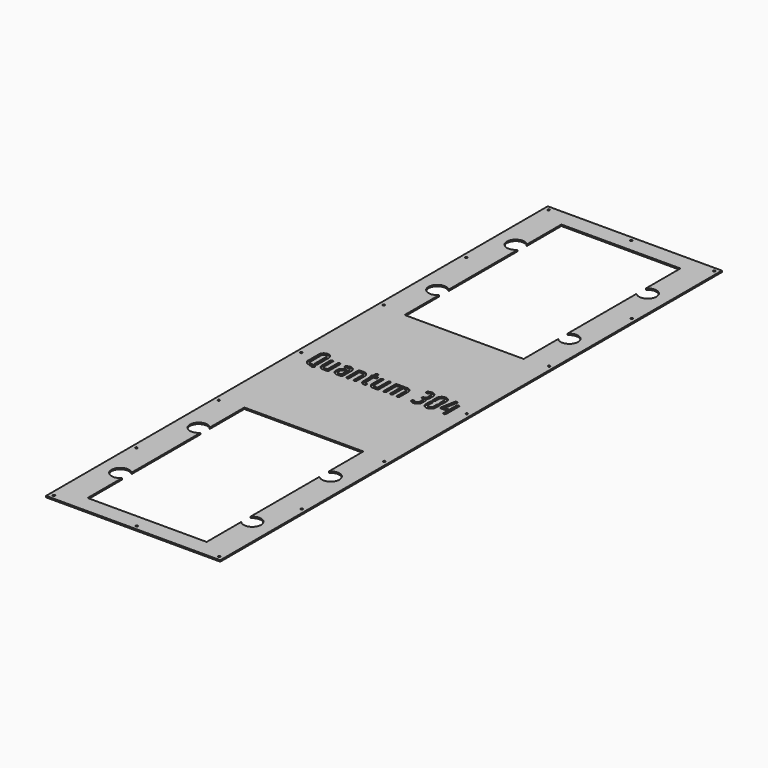
from build123d import *

# Parameters (mm, degrees)
F0_W     = 254
F0_H     = 914.4
F0_R     = 1.575
F1_DEPTH = 2.032


with BuildPart() as f1:
    # F0 (on Top) → F1 (new body)
    with BuildSketch(Plane.XY):
        with Locations((-358.773908, 13.611401)):
            Rectangle(F0_W, F0_H)
        with Locations((-479.423908, -437.238599)):
            Circle(F0_R, mode=Mode.SUBTRACT)
        with Locations((-479.423908, -286.955266)):
            Circle(F0_R, mode=Mode.SUBTRACT)
        with Locations((-479.423908, -136.671932)):
            Circle(F0_R, mode=Mode.SUBTRACT)
        Polygon((-461.237136, 22.853648), (-461.21232, 23.572976), (-461.113107, 24.292304), (-460.939473, 24.962026), (-460.716232, 25.631773), (-460.393779, 26.251889), (-460.046511, 26.847189), (-459.600029, 27.417698), (-459.103942, 27.963417), (-458.558223, 28.459505), (-457.987714, 28.905986), (-457.392414, 29.253255), (-456.772298, 29.575708), (-456.102576, 29.798948), (-455.432829, 29.972583), (-454.713501, 30.071795), (-453.969357, 30.096611), (-453.250029, 30.071795), (-452.530701, 29.972583), (-451.860954, 29.798948), (-451.191232, 29.575708), (-450.571117, 29.253255), (-449.975817, 28.905986), (-449.405308, 28.459505), (-448.859589, 27.963417), (-448.363501, 27.417698), (-447.91702, 26.847189), (-447.569751, 26.251889), (-447.247298, 25.631773), (-447.024058, 24.962026), (-446.850423, 24.292304), (-446.751185, 23.572976), (-446.726395, 22.853648), (-446.726395, 3.505986), (-446.726395, 3.282745), (-446.726395, 3.059505), (-446.751185, 2.836264), (-446.776001, 2.613023), (-446.800817, 2.414573), (-446.825607, 2.191333), (-446.850423, 1.992908), (-446.900029, 1.769667), (-446.92482, 1.645639), (-446.974451, 1.496795), (-447.024058, 1.372792), (-447.073664, 1.248764), (-447.14806, 1.149526), (-447.222482, 1.025523), (-447.321695, 0.926286), (-447.420933, 0.802283), (-447.569751, 0.678255), (-447.743386, 0.554226), (-447.892204, 0.455014), (-448.065839, 0.380592), (-448.239473, 0.30617), (-448.413107, 0.256564), (-448.611558, 0.231773), (-448.809982, 0.231773), (-449.008433, 0.231773), (-449.182067, 0.256564), (-449.380492, 0.30617), (-449.554126, 0.380592), (-449.702945, 0.455014), (-449.876579, 0.554226), (-450.025423, 0.653439), (-450.174242, 0.802283), (-450.29827, 0.951101), (-450.422298, 1.09992), (-450.521511, 1.248764), (-450.595933, 1.422398), (-450.670329, 1.596033), (-450.695145, 1.769667), (-450.719935, 1.968092), (-450.744751, 2.166542), (-450.744751, 2.216148), (-450.744751, 2.265755), (-450.744751, 2.315361), (-450.744751, 2.364967), (-450.719935, 2.414573), (-450.719935, 2.488995), (-450.719935, 2.538601), (-450.719935, 2.588208), (-450.695145, 2.712236), (-450.670329, 2.811448), (-450.645539, 2.935476), (-450.620723, 3.034689), (-450.620723, 3.158717), (-450.595933, 3.257929), (-450.595933, 3.381958), (-450.595933, 3.505986), (-450.595933, 22.853648), (-450.620723, 23.176101), (-450.645539, 23.52337), (-450.744751, 23.845823), (-450.843964, 24.143486), (-450.992808, 24.441148), (-451.141626, 24.713995), (-451.364867, 24.986842), (-451.588107, 25.234898), (-451.836164, 25.458139), (-452.109011, 25.68138), (-452.381857, 25.830198), (-452.67952, 25.979042), (-452.977183, 26.078255), (-453.299636, 26.177467), (-453.646904, 26.202283), (-453.969357, 26.227073), (-454.316626, 26.202283), (-454.663895, 26.177467), (-454.986348, 26.078255), (-455.284011, 25.979042), (-455.581673, 25.830198), (-455.85452, 25.68138), (-456.127367, 25.458139), (-456.375423, 25.234898), (-456.598664, 24.986842), (-456.821904, 24.713995), (-456.970723, 24.441148), (-457.119567, 24.143486), (-457.218779, 23.845823), (-457.317992, 23.52337), (-457.342808, 23.176101), (-457.367598, 22.853648), (-457.367598, 3.505986), (-457.342808, 3.158717), (-457.317992, 2.836264), (-457.24357, 2.538601), (-457.144357, 2.240939), (-456.995539, 1.968092), (-456.846695, 1.720036), (-456.64827, 1.472005), (-456.425029, 1.248764), (-456.201789, 1.050314), (-455.953732, 0.851889), (-455.705701, 0.678255), (-455.432829, 0.529411), (-455.184798, 0.405408), (-454.887136, 0.28138), (-454.614289, 0.182167), (-454.316626, 0.082929), (-446.900029, -2.496745), (-446.701579, -2.571167), (-446.527945, -2.67038), (-446.379126, -2.769592), (-446.230308, -2.89362), (-446.081464, -3.017649), (-445.957435, -3.166467), (-445.858223, -3.315311), (-445.759011, -3.488946), (-445.709404, -3.612974), (-445.684589, -3.712186), (-445.634982, -3.811399), (-445.610192, -3.935427), (-445.585376, -4.034639), (-445.585376, -4.133852), (-445.56056, -4.233089), (-445.56056, -4.332302), (-445.56056, -4.406724), (-445.56056, -4.48112), (-445.585376, -4.555542), (-445.585376, -4.629964), (-445.610192, -4.704361), (-445.610192, -4.778783), (-445.634982, -4.877995), (-445.659798, -4.952417), (-445.734195, -5.126052), (-445.833433, -5.299686), (-445.932645, -5.473321), (-446.031857, -5.622139), (-446.180701, -5.746167), (-446.32952, -5.870196), (-446.478339, -5.994224), (-446.651973, -6.093436), (-446.751185, -6.118227), (-446.875214, -6.167858), (-446.974451, -6.192649), (-447.073664, -6.217464), (-447.197692, -6.242255), (-447.296904, -6.267071), (-447.396117, -6.267071), (-447.495329, -6.267071), (-447.569751, -6.267071), (-447.668964, -6.267071), (-447.743386, -6.267071), (-447.817808, -6.242255), (-447.892204, -6.242255), (-447.966626, -6.217464), (-448.041048, -6.192649), (-448.140261, -6.167858), (-455.904126, -3.513736), (-456.400214, -3.340102), (-456.846695, -3.141677), (-457.293201, -2.918436), (-457.690076, -2.695196), (-458.086951, -2.447139), (-458.459011, -2.199083), (-458.781464, -1.926236), (-459.103942, -1.628599), (-459.600029, -1.08288), (-460.046511, -0.51237), (-460.393779, 0.082929), (-460.716232, 0.703045), (-460.939473, 1.372792), (-461.113107, 2.042514), (-461.21232, 2.761842), (-461.237136, 3.505986), align=None, mode=Mode.SUBTRACT)
        Polygon((-441.269357, 2.538601), (-441.36857, 3.233139), (-441.418201, 3.977283), (-441.418201, 18.984111), (-441.393386, 19.157745), (-441.36857, 19.35617), (-441.318964, 19.529804), (-441.269357, 19.703439), (-441.194935, 19.877073), (-441.095723, 20.050708), (-440.971695, 20.199526), (-440.847692, 20.34837), (-440.698848, 20.472398), (-440.550029, 20.596401), (-440.376395, 20.695639), (-440.202761, 20.770036), (-440.029126, 20.819667), (-439.855492, 20.869273), (-439.657067, 20.894064), (-439.483433, 20.91888), (-439.284982, 20.894064), (-439.086558, 20.869273), (-438.912923, 20.819667), (-438.739289, 20.770036), (-438.565654, 20.695639), (-438.39202, 20.596401), (-438.243201, 20.472398), (-438.094357, 20.34837), (-437.970329, 20.199526), (-437.846326, 20.050708), (-437.747089, 19.877073), (-437.672692, 19.703439), (-437.62306, 19.529804), (-437.573454, 19.35617), (-437.548664, 19.157745), (-437.548664, 18.984111), (-437.548664, 3.977283), (-437.523848, 3.630014), (-437.474242, 3.307536), (-437.39982, 2.985083), (-437.300607, 2.68742), (-437.151789, 2.389783), (-436.978154, 2.116911), (-436.779704, 1.844064), (-436.556464, 1.571217), (-436.283617, 1.347976), (-436.01077, 1.149526), (-435.737923, 0.975917), (-435.440261, 0.827073), (-435.142598, 0.727861), (-434.820145, 0.653439), (-434.497692, 0.603833), (-434.150423, 0.579042), (-430.752183, 0.579042), (-430.752183, 18.984111), (-430.752183, 19.157745), (-430.727367, 19.35617), (-430.677761, 19.529804), (-430.628154, 19.703439), (-430.553732, 19.877073), (-430.45452, 20.050708), (-430.330492, 20.199526), (-430.206464, 20.34837), (-430.057645, 20.472398), (-429.908826, 20.596401), (-429.735192, 20.695639), (-429.561558, 20.770036), (-429.387923, 20.819667), (-429.214289, 20.869273), (-429.015839, 20.894064), (-428.817414, 20.91888), (-428.643779, 20.894064), (-428.445329, 20.869273), (-428.271695, 20.819667), (-428.09806, 20.770036), (-427.924451, 20.695639), (-427.750817, 20.596401), (-427.601973, 20.472398), (-427.453154, 20.34837), (-427.329126, 20.199526), (-427.205098, 20.050708), (-427.105886, 19.877073), (-427.031464, 19.703439), (-426.981857, 19.529804), (-426.932251, 19.35617), (-426.907435, 19.157745), (-426.882645, 18.984111), (-426.882645, -1.355727), (-426.907435, -1.529361), (-426.932251, -1.727811), (-426.981857, -1.901446), (-427.031464, -2.07508), (-427.105886, -2.248714), (-427.205098, -2.422349), (-427.329126, -2.571167), (-427.453154, -2.719986), (-427.601973, -2.844014), (-427.750817, -2.968042), (-427.924451, -3.067255), (-428.09806, -3.141677), (-428.271695, -3.191283), (-428.445329, -3.240889), (-428.643779, -3.265705), (-428.817414, -3.290495), (-434.150423, -3.290495), (-434.894567, -3.240889), (-435.589079, -3.141677), (-436.283617, -2.968042), (-436.928548, -2.744802), (-437.548664, -2.447139), (-438.168779, -2.07508), (-438.739289, -1.653389), (-439.284982, -1.157302), (-439.78107, -0.611583), (-440.202761, -0.041099), (-440.57482, 0.579042), (-440.872482, 1.199158), (-441.095723, 1.844064), align=None, mode=Mode.SUBTRACT)
        Polygon((-421.078339, 5.936842), (-421.053548, 6.680986), (-420.95431, 7.375523), (-420.780701, 8.070036), (-420.557435, 8.714967), (-420.234982, 9.335083), (-419.887714, 9.955198), (-419.441232, 10.525708), (-418.945145, 11.071401), (-418.473848, 11.517908), (-417.952945, 11.889967), (-417.432067, 12.237236), (-416.886348, 12.534898), (-416.315839, 12.758139), (-415.720539, 12.956564), (-415.100423, 13.080592), (-414.480308, 13.179804), (-414.232251, 13.155014), (-414.009011, 13.130198), (-413.81056, 13.080592), (-413.612136, 13.030986), (-413.413685, 12.931773), (-413.240076, 12.832536), (-413.091232, 12.733323), (-412.942414, 12.584505), (-412.818386, 12.435661), (-412.694357, 12.286842), (-412.595145, 12.113208), (-412.520723, 11.964389), (-412.446326, 11.790755), (-412.396695, 11.61712), (-412.371904, 11.41867), (-412.371904, 11.245036), (-412.371904, 11.046611), (-412.396695, 10.848161), (-412.446326, 10.674526), (-412.520723, 10.500917), (-412.595145, 10.327283), (-412.694357, 10.178439), (-412.79357, 10.02962), (-412.917598, 9.880776), (-413.066442, 9.756773), (-413.190445, 9.657536), (-413.339289, 9.558323), (-413.488107, 9.483901), (-413.636951, 9.409505), (-413.78577, 9.359898), (-413.934589, 9.335083), (-414.108223, 9.310292), (-414.405886, 9.260661), (-414.703548, 9.211054), (-414.976395, 9.136658), (-415.249242, 9.01263), (-415.497298, 8.888601), (-415.745329, 8.714967), (-415.993386, 8.541333), (-416.216626, 8.318092), (-416.439867, 8.070036), (-416.663107, 7.797189), (-416.811951, 7.524342), (-416.96077, 7.226679), (-417.059982, 6.929042), (-417.159195, 6.606564), (-417.184011, 6.284111), (-417.208826, 5.936842), (-417.208826, 3.977283), (-417.184011, 3.630014), (-417.159195, 3.307536), (-417.059982, 2.985083), (-416.96077, 2.68742), (-416.811951, 2.389783), (-416.663107, 2.116911), (-416.439867, 1.844064), (-416.216626, 1.571217), (-415.96857, 1.347976), (-415.695723, 1.149526), (-415.422876, 0.975917), (-415.125214, 0.827073), (-414.827576, 0.727861), (-414.505098, 0.653439), (-414.157829, 0.603833), (-413.81056, 0.579042), (-410.437136, 0.579042), (-410.437136, 14.122398), (-410.461951, 14.444851), (-410.511558, 14.79212), (-410.585954, 15.114573), (-410.709982, 15.412236), (-410.834011, 15.709898), (-411.007645, 15.982745), (-411.20607, 16.255592), (-411.42931, 16.503648), (-411.702183, 16.726889), (-411.950214, 16.95013), (-412.247876, 17.098948), (-412.520723, 17.247792), (-412.843201, 17.347005), (-413.165654, 17.446217), (-413.488107, 17.471033), (-413.835376, 17.495823), (-414.182645, 17.471033), (-414.529914, 17.421401), (-414.852367, 17.347005), (-415.150029, 17.247792), (-415.447692, 17.098948), (-415.745329, 16.925314), (-416.018201, 16.726889), (-416.291048, 16.478833), (-416.415076, 16.354804), (-416.563895, 16.230776), (-416.737529, 16.131564), (-416.886348, 16.057167), (-417.059982, 15.982745), (-417.258433, 15.933139), (-417.432067, 15.908323), (-417.655308, 15.908323), (-417.828942, 15.908323), (-418.027367, 15.933139), (-418.201001, 15.982745), (-418.374636, 16.032351), (-418.54827, 16.131564), (-418.721904, 16.230776), (-418.870723, 16.330014), (-419.019567, 16.478833), (-419.14357, 16.602861), (-419.267598, 16.776495), (-419.36681, 16.925314), (-419.441232, 17.098948), (-419.490839, 17.272583), (-419.540445, 17.446217), (-419.565261, 17.644667), (-419.590076, 17.843092), (-419.565261, 18.016726), (-419.540445, 18.215151), (-419.490839, 18.388786), (-419.441232, 18.56242), (-419.36681, 18.736054), (-419.267598, 18.884898), (-419.14357, 19.033717), (-419.019567, 19.182536), (-418.473848, 19.703439), (-417.878548, 20.14992), (-417.283223, 20.522005), (-416.638317, 20.844458), (-415.96857, 21.092514), (-415.298848, 21.241333), (-414.57952, 21.365361), (-413.835376, 21.390151), (-413.116048, 21.365361), (-412.396695, 21.266148), (-411.726973, 21.092514), (-411.057251, 20.869273), (-410.437136, 20.546795), (-409.84181, 20.199526), (-409.271326, 19.753045), (-408.725607, 19.256958), (-408.22952, 18.711264), (-407.783039, 18.140755), (-407.410954, 17.545429), (-407.113317, 16.900523), (-406.890076, 16.255592), (-406.716442, 15.561054), (-406.617204, 14.841726), (-406.567598, 14.122398), (-406.567598, -1.355727), (-406.567598, -1.529361), (-406.592414, -1.727811), (-406.64202, -1.901446), (-406.716442, -2.07508), (-406.790839, -2.248714), (-406.890076, -2.422349), (-407.014079, -2.571167), (-407.138107, -2.719986), (-407.286951, -2.844014), (-407.43577, -2.968042), (-407.584589, -3.067255), (-407.758223, -3.141677), (-407.931857, -3.191283), (-408.105492, -3.240889), (-408.303942, -3.265705), (-408.502367, -3.290495), (-413.81056, -3.290495), (-414.554704, -3.240889), (-415.274058, -3.141677), (-415.943779, -2.968042), (-416.613501, -2.744802), (-417.233617, -2.447139), (-417.828942, -2.07508), (-418.399451, -1.653389), (-418.945145, -1.157302), (-419.441232, -0.611583), (-419.887714, -0.041099), (-420.234982, 0.579042), (-420.557435, 1.199158), (-420.780701, 1.844064), (-420.95431, 2.538601), (-421.053548, 3.233139), (-421.078339, 3.977283), align=None, mode=Mode.SUBTRACT)
        Polygon((-401.160192, -1.901446), (-401.209798, -1.727811), (-401.234589, -1.529361), (-401.234589, -1.355727), (-401.234589, 18.984111), (-401.234589, 19.157745), (-401.209798, 19.35617), (-401.160192, 19.529804), (-401.08577, 19.703439), (-401.011348, 19.877073), (-400.912136, 20.050708), (-400.788107, 20.199526), (-400.664079, 20.34837), (-400.515261, 20.472398), (-400.366442, 20.596401), (-400.217598, 20.695639), (-400.043964, 20.770036), (-399.870329, 20.819667), (-399.696695, 20.869273), (-399.49827, 20.894064), (-399.29982, 20.91888), (-393.991626, 20.91888), (-393.247482, 20.869273), (-392.528154, 20.770036), (-391.858433, 20.596401), (-391.188685, 20.373161), (-390.56857, 20.075523), (-389.97327, 19.703439), (-389.402761, 19.281773), (-388.857067, 18.785661), (-388.360954, 18.239967), (-387.914473, 17.669458), (-387.567204, 17.049342), (-387.244751, 16.429226), (-387.021511, 15.784295), (-386.847876, 15.089783), (-386.748664, 14.395245), (-386.723848, 13.651101), (-386.723848, -1.355727), (-386.723848, -1.529361), (-386.748664, -1.727811), (-386.79827, -1.901446), (-386.872692, -2.07508), (-386.947089, -2.248714), (-387.046326, -2.422349), (-387.170329, -2.571167), (-387.294357, -2.719986), (-387.443201, -2.844014), (-387.59202, -2.968042), (-387.740839, -3.067255), (-387.914473, -3.141677), (-388.088107, -3.191283), (-388.261742, -3.240889), (-388.460192, -3.265705), (-388.658617, -3.290495), (-388.857067, -3.265705), (-389.055492, -3.240889), (-389.229126, -3.191283), (-389.402761, -3.141677), (-389.576395, -3.067255), (-389.725214, -2.968042), (-389.874058, -2.844014), (-390.022876, -2.719986), (-390.146904, -2.571167), (-390.270933, -2.422349), (-390.370145, -2.248714), (-390.444567, -2.07508), (-390.518964, -1.901446), (-390.56857, -1.727811), (-390.593386, -1.529361), (-390.593386, -1.355727), (-390.593386, 13.651101), (-390.618201, 13.99837), (-390.642992, 14.320823), (-390.742204, 14.643276), (-390.841442, 14.940939), (-390.990261, 15.238601), (-391.139079, 15.511448), (-391.36232, 15.784295), (-391.58556, 16.057167), (-391.833617, 16.280408), (-392.106464, 16.478833), (-392.37931, 16.652467), (-392.676973, 16.801286), (-392.974636, 16.900523), (-393.297089, 16.97492), (-393.644357, 17.024526), (-393.991626, 17.049342), (-397.365076, 17.049342), (-397.365076, -1.355727), (-397.365076, -1.529361), (-397.389867, -1.727811), (-397.439473, -1.901446), (-397.513895, -2.07508), (-397.588317, -2.248714), (-397.687529, -2.422349), (-397.811558, -2.571167), (-397.93556, -2.719986), (-398.084404, -2.844014), (-398.233223, -2.968042), (-398.382067, -3.067255), (-398.555701, -3.141677), (-398.72931, -3.191283), (-398.902945, -3.240889), (-399.101395, -3.265705), (-399.29982, -3.290495), (-399.49827, -3.265705), (-399.696695, -3.240889), (-399.870329, -3.191283), (-400.043964, -3.141677), (-400.217598, -3.067255), (-400.366442, -2.968042), (-400.515261, -2.844014), (-400.664079, -2.719986), (-400.788107, -2.571167), (-400.912136, -2.422349), (-401.011348, -2.248714), (-401.08577, -2.07508), align=None, mode=Mode.SUBTRACT)
        Polygon((-381.812529, 18.413601), (-381.862136, 18.587236), (-381.886951, 18.785661), (-381.886951, 18.984111), (-381.886951, 19.157745), (-381.862136, 19.35617), (-381.812529, 19.529804), (-381.762923, 19.703439), (-381.663685, 19.877073), (-381.564473, 20.050708), (-381.465261, 20.199526), (-381.316442, 20.34837), (-381.217204, 20.447583), (-381.117992, 20.522005), (-381.018779, 20.596401), (-380.894751, 20.670823), (-380.795539, 20.720429), (-380.671511, 20.770036), (-380.547482, 20.819667), (-380.423454, 20.869273), (-380.423454, 24.763601), (-380.423454, 24.937236), (-380.398664, 25.135661), (-380.349058, 25.309295), (-380.274636, 25.482929), (-380.200214, 25.656564), (-380.101001, 25.830198), (-379.976973, 25.979042), (-379.852945, 26.127861), (-379.704126, 26.251889), (-379.530492, 26.375917), (-379.381673, 26.47513), (-379.208039, 26.549526), (-379.034404, 26.599158), (-378.86077, 26.648764), (-378.687136, 26.673554), (-378.488685, 26.69837), (-378.290261, 26.673554), (-378.09181, 26.648764), (-377.918201, 26.599158), (-377.744567, 26.549526), (-377.570933, 26.47513), (-377.422089, 26.375917), (-377.27327, 26.251889), (-377.124451, 26.127861), (-377.000423, 25.979042), (-376.876395, 25.830198), (-376.777183, 25.656564), (-376.702761, 25.482929), (-376.628339, 25.309295), (-376.578732, 25.135661), (-376.553942, 24.937236), (-376.553942, 24.763601), (-376.553942, 20.91888), (-374.12306, 20.91888), (-373.949451, 20.894064), (-373.751001, 20.869273), (-373.577367, 20.819667), (-373.403732, 20.770036), (-373.230098, 20.695639), (-373.056464, 20.596401), (-372.907645, 20.472398), (-372.758826, 20.34837), (-372.634798, 20.199526), (-372.51077, 20.050708), (-372.411558, 19.877073), (-372.337136, 19.703439), (-372.287529, 19.529804), (-372.237923, 19.35617), (-372.213107, 19.157745), (-372.188317, 18.984111), (-372.213107, 18.785661), (-372.237923, 18.587236), (-372.287529, 18.413601), (-372.337136, 18.239967), (-372.411558, 18.066333), (-372.51077, 17.892698), (-372.634798, 17.74388), (-372.758826, 17.595036), (-372.907645, 17.471033), (-373.056464, 17.347005), (-373.230098, 17.247792), (-373.403732, 17.17337), (-373.577367, 17.123764), (-373.751001, 17.074158), (-373.949451, 17.049342), (-374.12306, 17.049342), (-376.553942, 17.049342), (-376.553942, 3.009898), (-376.553942, 2.761842), (-376.50431, 2.513786), (-376.454704, 2.290545), (-376.380308, 2.067304), (-376.28107, 1.86888), (-376.157067, 1.670429), (-376.008223, 1.472005), (-375.859404, 1.29837), (-375.660954, 1.124736), (-375.48732, 0.975917), (-375.288895, 0.876679), (-375.065654, 0.777467), (-374.842414, 0.678255), (-374.619173, 0.628648), (-374.395933, 0.603833), (-374.12306, 0.579042), (-373.924636, 0.579042), (-373.751001, 0.554226), (-373.552576, 0.50462), (-373.378942, 0.455014), (-373.205308, 0.355776), (-373.056464, 0.256564), (-372.882829, 0.157351), (-372.734011, 0.008533), (-372.609982, -0.140311), (-372.485954, -0.28913), (-372.386742, -0.462764), (-372.31232, -0.611583), (-372.262714, -0.785217), (-372.213107, -0.958852), (-372.188317, -1.157302), (-372.188317, -1.355727), (-372.188317, -1.529361), (-372.213107, -1.727811), (-372.262714, -1.901446), (-372.31232, -2.07508), (-372.386742, -2.248714), (-372.485954, -2.422349), (-372.609982, -2.571167), (-372.734011, -2.719986), (-372.882829, -2.844014), (-373.056464, -2.968042), (-373.205308, -3.067255), (-373.378942, -3.141677), (-373.552576, -3.191283), (-373.751001, -3.240889), (-373.924636, -3.265705), (-374.12306, -3.290495), (-374.767992, -3.240889), (-375.388107, -3.166467), (-375.983433, -3.017649), (-376.529126, -2.819224), (-377.07482, -2.546352), (-377.595723, -2.248714), (-378.09181, -1.851839), (-378.563107, -1.430149), (-379.009589, -0.958852), (-379.381673, -0.462764), (-379.704126, 0.058139), (-379.952183, 0.603833), (-380.175423, 1.174342), (-380.299451, 1.769667), (-380.398664, 2.364967), (-380.423454, 3.009898), (-380.423454, 17.074158), (-380.547482, 17.123764), (-380.671511, 17.17337), (-380.795539, 17.222976), (-380.894751, 17.272583), (-381.018779, 17.347005), (-381.117992, 17.421401), (-381.217204, 17.520639), (-381.316442, 17.619851), (-381.465261, 17.76867), (-381.564473, 17.917514), (-381.663685, 18.091148), (-381.762923, 18.239967), align=None, mode=Mode.SUBTRACT)
        Polygon((-368.194751, 2.538601), (-368.293964, 3.233139), (-368.34357, 3.977283), (-368.34357, 18.984111), (-368.318779, 19.157745), (-368.293964, 19.35617), (-368.244357, 19.529804), (-368.194751, 19.703439), (-368.120329, 19.877073), (-368.021117, 20.050708), (-367.897089, 20.199526), (-367.77306, 20.34837), (-367.624242, 20.472398), (-367.475423, 20.596401), (-367.301789, 20.695639), (-367.128154, 20.770036), (-366.95452, 20.819667), (-366.780886, 20.869273), (-366.582435, 20.894064), (-366.408826, 20.91888), (-366.210376, 20.894064), (-366.011951, 20.869273), (-365.838317, 20.819667), (-365.664683, 20.770036), (-365.491048, 20.695639), (-365.317414, 20.596401), (-365.16857, 20.472398), (-365.019751, 20.34837), (-364.895723, 20.199526), (-364.771695, 20.050708), (-364.672482, 19.877073), (-364.59806, 19.703439), (-364.548454, 19.529804), (-364.498848, 19.35617), (-364.474058, 19.157745), (-364.474058, 18.984111), (-364.474058, 3.977283), (-364.449242, 3.630014), (-364.399636, 3.307536), (-364.325214, 2.985083), (-364.226001, 2.68742), (-364.077183, 2.389783), (-363.903548, 2.116911), (-363.705098, 1.844064), (-363.481857, 1.571217), (-363.209011, 1.347976), (-362.936164, 1.149526), (-362.663317, 0.975917), (-362.365654, 0.827073), (-362.067992, 0.727861), (-361.745539, 0.653439), (-361.42306, 0.603833), (-361.075817, 0.579042), (-357.677576, 0.579042), (-357.677576, 18.984111), (-357.677576, 19.157745), (-357.652761, 19.35617), (-357.603154, 19.529804), (-357.553548, 19.703439), (-357.479126, 19.877073), (-357.379914, 20.050708), (-357.255886, 20.199526), (-357.131857, 20.34837), (-356.983039, 20.472398), (-356.834195, 20.596401), (-356.66056, 20.695639), (-356.486951, 20.770036), (-356.313317, 20.819667), (-356.139683, 20.869273), (-355.941232, 20.894064), (-355.742808, 20.91888), (-355.569173, 20.894064), (-355.370723, 20.869273), (-355.197089, 20.819667), (-355.023454, 20.770036), (-354.84982, 20.695639), (-354.676185, 20.596401), (-354.527367, 20.472398), (-354.378548, 20.34837), (-354.25452, 20.199526), (-354.130492, 20.050708), (-354.031279, 19.877073), (-353.956857, 19.703439), (-353.907251, 19.529804), (-353.857645, 19.35617), (-353.832829, 19.157745), (-353.808039, 18.984111), (-353.808039, -1.355727), (-353.832829, -1.529361), (-353.857645, -1.727811), (-353.907251, -1.901446), (-353.956857, -2.07508), (-354.031279, -2.248714), (-354.130492, -2.422349), (-354.25452, -2.571167), (-354.378548, -2.719986), (-354.527367, -2.844014), (-354.676185, -2.968042), (-354.84982, -3.067255), (-355.023454, -3.141677), (-355.197089, -3.191283), (-355.370723, -3.240889), (-355.569173, -3.265705), (-355.742808, -3.290495), (-361.075817, -3.290495), (-361.819935, -3.240889), (-362.514473, -3.141677), (-363.209011, -2.968042), (-363.853942, -2.744802), (-364.474058, -2.447139), (-365.094173, -2.07508), (-365.664683, -1.653389), (-366.210376, -1.157302), (-366.706464, -0.611583), (-367.128154, -0.041099), (-367.500214, 0.579042), (-367.797876, 1.199158), (-368.021117, 1.844064), align=None, mode=Mode.SUBTRACT)
        with Locations((-358.773908, -437.238599)):
            Circle(F0_R, mode=Mode.SUBTRACT)
        with BuildLine():
            Line((-445.553008, -195.475839), (-445.553008, -132.438599))
            Line((-445.553008, -132.438599), (-271.994808, -132.438599))
            Line((-271.994808, -132.438599), (-271.994808, -195.475839))
            ThreePointArc((-271.994808, -195.475839), (-249.769808, -203.876099), (-271.994808, -212.276359))
            Line((-271.994808, -212.276359), (-271.994808, -338.350839))
            ThreePointArc((-271.994808, -338.350839), (-249.769808, -346.751099), (-271.994808, -355.151359))
            Line((-271.994808, -355.151359), (-271.994808, -418.188599))
            Line((-271.994808, -418.188599), (-445.553008, -418.188599))
            Line((-445.553008, -418.188599), (-445.553008, -355.151359))
            ThreePointArc((-445.553008, -355.151359), (-467.778008, -346.751099), (-445.553008, -338.350839))
            Line((-445.553008, -338.350839), (-445.553008, -212.276359))
            ThreePointArc((-445.553008, -212.276359), (-467.778008, -203.876099), (-445.553008, -195.475839))
        make_face(mode=Mode.SUBTRACT)
        with Locations((-238.123908, -437.238599)):
            Circle(F0_R, mode=Mode.SUBTRACT)
        with Locations((-238.123908, -286.955266)):
            Circle(F0_R, mode=Mode.SUBTRACT)
        Polygon((-346.961951, -1.901446), (-347.011558, -1.727811), (-347.036348, -1.529361), (-347.036348, -1.355727), (-347.036348, 18.984111), (-347.036348, 19.157745), (-347.011558, 19.35617), (-346.961951, 19.529804), (-346.887529, 19.703439), (-346.813107, 19.877073), (-346.713895, 20.050708), (-346.589867, 20.199526), (-346.465839, 20.34837), (-346.31702, 20.472398), (-346.168201, 20.596401), (-346.019357, 20.695639), (-345.845723, 20.770036), (-345.672089, 20.819667), (-345.498454, 20.869273), (-345.300029, 20.894064), (-345.101579, 20.91888), (-331.062136, 20.91888), (-330.342808, 20.869273), (-329.623454, 20.770036), (-328.953732, 20.596401), (-328.284011, 20.373161), (-327.663895, 20.075523), (-327.06857, 19.703439), (-326.49806, 19.281773), (-325.952367, 18.785661), (-325.456279, 18.239967), (-325.009798, 17.669458), (-324.662529, 17.049342), (-324.340076, 16.429226), (-324.11681, 15.784295), (-323.943201, 15.089783), (-323.843964, 14.395245), (-323.819173, 13.651101), (-323.819173, -1.355727), (-323.819173, -1.529361), (-323.843964, -1.727811), (-323.89357, -1.901446), (-323.967992, -2.07508), (-324.042414, -2.248714), (-324.141626, -2.422349), (-324.265654, -2.571167), (-324.389683, -2.719986), (-324.538501, -2.844014), (-324.68732, -2.968042), (-324.836164, -3.067255), (-325.009798, -3.141677), (-325.183433, -3.191283), (-325.357067, -3.240889), (-325.555492, -3.265705), (-325.753942, -3.290495), (-325.952367, -3.265705), (-326.150817, -3.240889), (-326.324451, -3.191283), (-326.49806, -3.141677), (-326.671695, -3.067255), (-326.820539, -2.968042), (-326.969357, -2.844014), (-327.118201, -2.719986), (-327.242204, -2.571167), (-327.366232, -2.422349), (-327.465445, -2.248714), (-327.539867, -2.07508), (-327.614289, -1.901446), (-327.663895, -1.727811), (-327.688685, -1.529361), (-327.688685, -1.355727), (-327.688685, 13.651101), (-327.713501, 13.99837), (-327.738317, 14.320823), (-327.837529, 14.643276), (-327.936742, 14.940939), (-328.08556, 15.238601), (-328.234404, 15.511448), (-328.457645, 15.784295), (-328.680886, 16.057167), (-328.928942, 16.280408), (-329.201789, 16.478833), (-329.474636, 16.652467), (-329.772298, 16.801286), (-330.069935, 16.900523), (-330.392414, 16.97492), (-330.739683, 17.024526), (-331.062136, 17.049342), (-333.492992, 17.049342), (-333.492992, -1.355727), (-333.492992, -1.529361), (-333.517808, -1.727811), (-333.567414, -1.901446), (-333.64181, -2.07508), (-333.716232, -2.248714), (-333.815445, -2.422349), (-333.939473, -2.571167), (-334.063501, -2.719986), (-334.21232, -2.844014), (-334.361164, -2.968042), (-334.509982, -3.067255), (-334.683617, -3.141677), (-334.857251, -3.191283), (-335.030886, -3.240889), (-335.22931, -3.265705), (-335.427761, -3.290495), (-335.626185, -3.265705), (-335.824636, -3.240889), (-335.99827, -3.191283), (-336.171904, -3.141677), (-336.345539, -3.067255), (-336.494357, -2.968042), (-336.643201, -2.844014), (-336.79202, -2.719986), (-336.916048, -2.571167), (-337.040076, -2.422349), (-337.139289, -2.248714), (-337.213685, -2.07508), (-337.288107, -1.901446), (-337.337714, -1.727811), (-337.362529, -1.529361), (-337.362529, -1.355727), (-337.362529, 17.049342), (-343.16681, 17.049342), (-343.16681, -1.355727), (-343.16681, -1.529361), (-343.191626, -1.727811), (-343.241232, -1.901446), (-343.315654, -2.07508), (-343.390076, -2.248714), (-343.489289, -2.422349), (-343.613317, -2.571167), (-343.73732, -2.719986), (-343.886164, -2.844014), (-344.034982, -2.968042), (-344.183826, -3.067255), (-344.357435, -3.141677), (-344.53107, -3.191283), (-344.704704, -3.240889), (-344.903154, -3.265705), (-345.101579, -3.290495), (-345.300029, -3.265705), (-345.498454, -3.240889), (-345.672089, -3.191283), (-345.845723, -3.141677), (-346.019357, -3.067255), (-346.168201, -2.968042), (-346.31702, -2.844014), (-346.465839, -2.719986), (-346.589867, -2.571167), (-346.713895, -2.422349), (-346.813107, -2.248714), (-346.887529, -2.07508), align=None, mode=Mode.SUBTRACT)
        Polygon((-307.770539, -0.561977), (-307.795329, -0.363552), (-307.820145, -0.189917), (-307.795329, 0.008533), (-307.770539, 0.206958), (-307.720933, 0.380592), (-307.671326, 0.554226), (-307.596904, 0.727861), (-307.497692, 0.876679), (-307.373664, 1.050314), (-307.249636, 1.174342), (-307.100817, 1.323161), (-306.951973, 1.422398), (-306.778339, 1.521611), (-306.604704, 1.620823), (-306.43107, 1.670429), (-306.257435, 1.720036), (-306.059011, 1.744851), (-305.885376, 1.744851), (-305.686951, 1.744851), (-305.488501, 1.720036), (-305.314867, 1.670429), (-305.141232, 1.620823), (-304.967598, 1.546401), (-304.793964, 1.447189), (-304.645145, 1.323161), (-304.496326, 1.199158), (-304.223454, 0.951101), (-303.950607, 0.727861), (-303.652945, 0.554226), (-303.355308, 0.405408), (-303.032829, 0.28138), (-302.710376, 0.206958), (-302.363107, 0.157351), (-302.040654, 0.132536), (-301.66857, 0.157351), (-301.346117, 0.182167), (-301.023664, 0.28138), (-300.726001, 0.380592), (-300.428339, 0.529411), (-300.130701, 0.678255), (-299.882645, 0.901495), (-299.634589, 1.124736), (-299.386558, 1.372792), (-299.188107, 1.645639), (-299.014473, 1.918486), (-298.890445, 2.216148), (-298.791232, 2.513786), (-298.69202, 2.836264), (-298.667204, 3.158717), (-298.642414, 3.505986), (-298.642414, 8.838995), (-298.642414, 9.087026), (-298.69202, 9.335083), (-298.741626, 9.558323), (-298.816048, 9.781564), (-298.915261, 9.980014), (-299.039289, 10.178439), (-299.163317, 10.376889), (-299.336951, 10.550523), (-299.51056, 10.724158), (-299.709011, 10.872976), (-299.907435, 10.972189), (-300.105886, 11.071401), (-300.329126, 11.145823), (-300.552367, 11.220245), (-300.800423, 11.245036), (-301.048454, 11.245036), (-301.07327, 11.245036), (-301.246904, 11.269851), (-301.445329, 11.294667), (-301.618964, 11.344273), (-301.792598, 11.39388), (-301.966232, 11.493092), (-302.139867, 11.592304), (-302.288685, 11.691542), (-302.437529, 11.840361), (-302.561558, 11.989179), (-302.68556, 12.138023), (-302.784798, 12.311658), (-302.859195, 12.460476), (-302.908826, 12.634111), (-302.958433, 12.807745), (-302.983223, 13.00617), (-303.008039, 13.179804), (-302.983223, 13.378255), (-302.958433, 13.576679), (-302.908826, 13.750314), (-302.859195, 13.923948), (-302.784798, 14.097583), (-302.68556, 14.271217), (-302.561558, 14.420036), (-302.437529, 14.56888), (-302.288685, 14.692908), (-302.139867, 14.816911), (-301.966232, 14.916148), (-301.792598, 14.990545), (-301.618964, 15.040151), (-301.445329, 15.089783), (-301.246904, 15.114573), (-301.07327, 15.114573), (-301.048454, 15.114573), (-300.800423, 15.139389), (-300.552367, 15.164179), (-300.329126, 15.213786), (-300.105886, 15.313023), (-299.907435, 15.412236), (-299.709011, 15.511448), (-299.51056, 15.660292), (-299.336951, 15.833901), (-299.163317, 16.007536), (-299.039289, 16.205986), (-298.915261, 16.404411), (-298.816048, 16.602861), (-298.741626, 16.826101), (-298.69202, 17.049342), (-298.642414, 17.297398), (-298.642414, 17.545429), (-298.642414, 22.853648), (-298.667204, 23.200917), (-298.69202, 23.52337), (-298.791232, 23.845823), (-298.890445, 24.143486), (-299.014473, 24.441148), (-299.188107, 24.713995), (-299.386558, 24.986842), (-299.634589, 25.234898), (-299.882645, 25.458139), (-300.130701, 25.68138), (-300.428339, 25.830198), (-300.726001, 25.979042), (-301.023664, 26.078255), (-301.346117, 26.177467), (-301.66857, 26.202283), (-302.040654, 26.227073), (-302.363107, 26.202283), (-302.710376, 26.152651), (-303.032829, 26.078255), (-303.330492, 25.979042), (-303.628154, 25.830198), (-303.925817, 25.631773), (-304.223454, 25.433323), (-304.496326, 25.185292), (-304.645145, 25.061264), (-304.793964, 24.937236), (-304.967598, 24.838023), (-305.141232, 24.763601), (-305.314867, 24.689179), (-305.488501, 24.639573), (-305.686951, 24.614783), (-305.885376, 24.614783), (-306.059011, 24.614783), (-306.257435, 24.639573), (-306.43107, 24.689179), (-306.604704, 24.738786), (-306.778339, 24.838023), (-306.951973, 24.937236), (-307.100817, 25.036448), (-307.249636, 25.185292), (-307.373664, 25.309295), (-307.497692, 25.482929), (-307.596904, 25.631773), (-307.671326, 25.805408), (-307.720933, 25.979042), (-307.770539, 26.152651), (-307.795329, 26.351101), (-307.820145, 26.549526), (-307.795329, 26.723161), (-307.770539, 26.921611), (-307.720933, 27.095245), (-307.671326, 27.26888), (-307.572089, 27.442514), (-307.472876, 27.591333), (-307.373664, 27.740151), (-307.22482, 27.888995), (-306.65431, 28.409898), (-306.083826, 28.88117), (-305.463685, 29.253255), (-304.818779, 29.575708), (-304.173848, 29.798948), (-303.47931, 29.972583), (-302.759982, 30.096611), (-302.040654, 30.121401), (-301.296511, 30.096611), (-300.577183, 29.997398), (-299.907435, 29.823764), (-299.237714, 29.600523), (-298.617598, 29.278045), (-298.022298, 28.930776), (-297.451789, 28.484295), (-296.90607, 27.988208), (-296.409982, 27.442514), (-295.963501, 26.872005), (-295.616232, 26.276679), (-295.293779, 25.656564), (-295.070539, 24.986842), (-294.896904, 24.31712), (-294.797692, 23.597792), (-294.772876, 22.853648), (-294.772876, 17.545429), (-294.797692, 16.900523), (-294.872089, 16.305198), (-295.020933, 15.709898), (-295.219357, 15.164179), (-295.467414, 14.643276), (-295.765076, 14.122398), (-296.137136, 13.651101), (-296.534011, 13.179804), (-296.137136, 12.733323), (-295.765076, 12.262026), (-295.467414, 11.741148), (-295.219357, 11.220245), (-295.020933, 10.674526), (-294.872089, 10.079226), (-294.797692, 9.483901), (-294.772876, 8.838995), (-294.772876, 3.505986), (-294.797692, 2.761842), (-294.896904, 2.042514), (-295.070539, 1.372792), (-295.293779, 0.703045), (-295.616232, 0.082929), (-295.963501, -0.51237), (-296.409982, -1.08288), (-296.90607, -1.628599), (-297.451789, -2.124686), (-298.022298, -2.571167), (-298.617598, -2.918436), (-299.237714, -3.240889), (-299.907435, -3.46413), (-300.577183, -3.637764), (-301.296511, -3.736977), (-302.040654, -3.761792), (-302.759982, -3.736977), (-303.47931, -3.612974), (-304.173848, -3.439339), (-304.818779, -3.216099), (-305.463685, -2.89362), (-306.083826, -2.521561), (-306.65431, -2.050264), (-307.22482, -1.529361), (-307.373664, -1.380542), (-307.472876, -1.231724), (-307.572089, -1.08288), (-307.671326, -0.909245), (-307.720933, -0.735611), align=None, mode=Mode.SUBTRACT)
        with Locations((-238.123908, -136.671932)):
            Circle(F0_R, mode=Mode.SUBTRACT)
        Polygon((-289.340654, 2.042514), (-289.439867, 2.761842), (-289.489473, 3.505986), (-289.489473, 10.252861), (-289.464683, 10.426495), (-289.439867, 10.62492), (-289.390261, 10.798554), (-289.340654, 10.972189), (-289.266232, 11.145823), (-289.16702, 11.319458), (-289.042992, 11.468276), (-288.918964, 11.61712), (-288.770145, 11.741148), (-288.621326, 11.865151), (-288.447692, 11.964389), (-288.274058, 12.038786), (-288.100423, 12.088417), (-287.926789, 12.138023), (-287.728339, 12.162814), (-287.554704, 12.18763), (-287.356279, 12.162814), (-287.157829, 12.138023), (-286.984195, 12.088417), (-286.81056, 12.038786), (-286.636951, 11.964389), (-286.463317, 11.865151), (-286.314473, 11.741148), (-286.165654, 11.61712), (-286.041626, 11.468276), (-285.917598, 11.319458), (-285.818386, 11.145823), (-285.743964, 10.972189), (-285.694357, 10.798554), (-285.644751, 10.62492), (-285.619935, 10.426495), (-285.619935, 10.252861), (-285.619935, 3.505986), (-285.595145, 3.158717), (-285.545539, 2.811448), (-285.471117, 2.488995), (-285.371904, 2.191333), (-285.22306, 1.89367), (-285.049451, 1.620823), (-284.851001, 1.347976), (-284.627761, 1.09992), (-284.354914, 0.876679), (-284.082067, 0.653439), (-283.809195, 0.50462), (-283.511558, 0.355776), (-283.213895, 0.256564), (-282.891442, 0.157351), (-282.568964, 0.132536), (-282.221695, 0.107745), (-281.874451, 0.132536), (-281.551973, 0.157351), (-281.22952, 0.256564), (-280.931857, 0.355776), (-280.634195, 0.50462), (-280.361348, 0.653439), (-280.088501, 0.876679), (-279.815654, 1.09992), (-279.592414, 1.347976), (-279.393964, 1.620823), (-279.220329, 1.89367), (-279.071511, 2.191333), (-278.972298, 2.488995), (-278.897876, 2.811448), (-278.84827, 3.158717), (-278.823454, 3.505986), (-278.823454, 10.252861), (-278.823454, 10.426495), (-278.798664, 10.62492), (-278.749058, 10.798554), (-278.699451, 10.972189), (-278.625029, 11.145823), (-278.525817, 11.319458), (-278.401789, 11.468276), (-278.277761, 11.61712), (-278.128942, 11.741148), (-277.980098, 11.865151), (-277.806464, 11.964389), (-277.632829, 12.038786), (-277.459195, 12.088417), (-277.28556, 12.138023), (-277.087136, 12.162814), (-276.888685, 12.18763), (-276.715076, 12.162814), (-276.516626, 12.138023), (-276.342992, 12.088417), (-276.169357, 12.038786), (-275.995723, 11.964389), (-275.822089, 11.865151), (-275.67327, 11.741148), (-275.524451, 11.61712), (-275.400423, 11.468276), (-275.276395, 11.319458), (-275.177183, 11.145823), (-275.102761, 10.972189), (-275.053154, 10.798554), (-275.003548, 10.62492), (-274.978732, 10.426495), (-274.953942, 10.252861), (-274.953942, 3.505986), (-275.003548, 2.761842), (-275.102761, 2.042514), (-275.276395, 1.372792), (-275.499636, 0.703045), (-275.797298, 0.082929), (-276.169357, -0.51237), (-276.591048, -1.08288), (-277.087136, -1.628599), (-277.632829, -2.124686), (-278.203339, -2.571167), (-278.823454, -2.918436), (-279.44357, -3.240889), (-280.088501, -3.46413), (-280.783039, -3.637764), (-281.477576, -3.736977), (-282.221695, -3.761792), (-282.965839, -3.736977), (-283.660376, -3.637764), (-284.354914, -3.46413), (-284.99982, -3.240889), (-285.619935, -2.918436), (-286.240076, -2.571167), (-286.81056, -2.124686), (-287.356279, -1.628599), (-287.852367, -1.08288), (-288.274058, -0.51237), (-288.646117, 0.082929), (-288.943779, 0.703045), (-289.16702, 1.372792), align=None, mode=Mode.SUBTRACT)
        Polygon((-271.009982, 6.780198), (-271.059589, 6.953833), (-271.084404, 7.152283), (-271.084404, 7.350708), (-271.084404, 7.42513), (-271.084404, 7.499526), (-271.084404, 7.573948), (-271.084404, 7.64837), (-271.059589, 7.722792), (-271.034798, 7.772398), (-271.034798, 7.846795), (-271.009982, 7.896401), (-267.214867, 27.690545), (-267.190076, 27.888995), (-267.140445, 28.08742), (-267.090839, 28.261054), (-267.016442, 28.434689), (-266.94202, 28.608323), (-266.842808, 28.757167), (-266.74357, 28.905986), (-266.619567, 29.054804), (-266.470723, 29.178833), (-266.321904, 29.302861), (-266.17306, 29.402073), (-266.024242, 29.476495), (-265.850607, 29.526101), (-265.676973, 29.575708), (-265.478548, 29.600523), (-265.280098, 29.600523), (-265.106464, 29.600523), (-264.908039, 29.575708), (-264.734404, 29.526101), (-264.56077, 29.476495), (-264.387136, 29.402073), (-264.213501, 29.302861), (-264.064683, 29.178833), (-263.915839, 29.054804), (-263.79181, 28.905986), (-263.667808, 28.757167), (-263.56857, 28.583533), (-263.494173, 28.409898), (-263.444567, 28.236264), (-263.394935, 28.06263), (-263.370145, 27.864179), (-263.345329, 27.665755), (-263.370145, 27.616148), (-263.370145, 27.541726), (-263.370145, 27.467304), (-263.370145, 27.392908), (-263.370145, 27.318486), (-263.394935, 27.244064), (-263.394935, 27.194458), (-263.394935, 27.120036), (-266.817992, 9.285476), (-259.971904, 9.285476), (-259.971904, 21.861448), (-259.971904, 22.035083), (-259.947089, 22.233533), (-259.897482, 22.407167), (-259.82306, 22.580776), (-259.748664, 22.754411), (-259.649451, 22.928045), (-259.525423, 23.076889), (-259.401395, 23.225708), (-259.252576, 23.349736), (-259.103732, 23.473764), (-258.954914, 23.572976), (-258.781279, 23.647398), (-258.607645, 23.697005), (-258.434011, 23.746611), (-258.23556, 23.771401), (-258.037136, 23.796217), (-257.838685, 23.771401), (-257.640261, 23.746611), (-257.466626, 23.697005), (-257.292992, 23.647398), (-257.119357, 23.572976), (-256.970539, 23.473764), (-256.821695, 23.349736), (-256.672876, 23.225708), (-256.548848, 23.076889), (-256.42482, 22.928045), (-256.325607, 22.754411), (-256.251185, 22.580776), (-256.176789, 22.407167), (-256.127183, 22.233533), (-256.102367, 22.035083), (-256.102367, 21.861448), (-256.102367, -1.355727), (-256.102367, -1.554177), (-256.127183, -1.752602), (-256.176789, -1.926236), (-256.251185, -2.09987), (-256.325607, -2.273505), (-256.42482, -2.447139), (-256.548848, -2.595958), (-256.672876, -2.744802), (-256.821695, -2.86883), (-256.970539, -2.992858), (-257.119357, -3.092071), (-257.292992, -3.166467), (-257.466626, -3.216099), (-257.640261, -3.265705), (-257.838685, -3.290495), (-258.037136, -3.290495), (-258.23556, -3.290495), (-258.434011, -3.265705), (-258.607645, -3.216099), (-258.781279, -3.166467), (-258.954914, -3.092071), (-259.103732, -2.992858), (-259.252576, -2.86883), (-259.401395, -2.744802), (-259.525423, -2.595958), (-259.649451, -2.447139), (-259.748664, -2.273505), (-259.82306, -2.09987), (-259.897482, -1.926236), (-259.947089, -1.752602), (-259.971904, -1.554177), (-259.971904, -1.355727), (-259.971904, 5.415939), (-269.149636, 5.415939), (-269.34806, 5.415939), (-269.546511, 5.440755), (-269.720145, 5.490361), (-269.893779, 5.539967), (-270.067414, 5.639179), (-270.241048, 5.738417), (-270.389867, 5.83763), (-270.538685, 5.986448), (-270.662714, 6.135292), (-270.786742, 6.284111), (-270.885954, 6.457745), (-270.960376, 6.606564), align=None, mode=Mode.SUBTRACT)
        with Locations((-238.123908, 13.611401)):
            Circle(F0_R, mode=Mode.SUBTRACT)
        with Locations((-479.423908, 13.611401)):
            Circle(F0_R, mode=Mode.SUBTRACT)
        with Locations((-479.423908, 163.894734)):
            Circle(F0_R, mode=Mode.SUBTRACT)
        with Locations((-479.423908, 314.178068)):
            Circle(F0_R, mode=Mode.SUBTRACT)
        with Locations((-479.423908, 464.461401)):
            Circle(F0_R, mode=Mode.SUBTRACT)
        Polygon((-289.489473, 22.853648), (-289.439867, 23.597792), (-289.340654, 24.31712), (-289.16702, 24.986842), (-288.943779, 25.656564), (-288.646117, 26.276679), (-288.274058, 26.872005), (-287.852367, 27.442514), (-287.356279, 27.988208), (-286.81056, 28.484295), (-286.240076, 28.930776), (-285.619935, 29.278045), (-284.99982, 29.600523), (-284.354914, 29.823764), (-283.660376, 29.997398), (-282.965839, 30.096611), (-282.221695, 30.121401), (-281.477576, 30.096611), (-280.783039, 29.997398), (-280.088501, 29.823764), (-279.44357, 29.600523), (-278.823454, 29.278045), (-278.203339, 28.930776), (-277.632829, 28.484295), (-277.087136, 27.988208), (-276.591048, 27.442514), (-276.169357, 26.872005), (-275.797298, 26.276679), (-275.499636, 25.656564), (-275.276395, 24.986842), (-275.102761, 24.31712), (-275.003548, 23.597792), (-274.953942, 22.853648), (-274.953942, 16.106773), (-274.978732, 15.933139), (-275.003548, 15.734689), (-275.053154, 15.561054), (-275.102761, 15.38742), (-275.177183, 15.213786), (-275.276395, 15.040151), (-275.400423, 14.891333), (-275.524451, 14.742514), (-275.67327, 14.618486), (-275.822089, 14.494458), (-275.995723, 14.395245), (-276.169357, 14.320823), (-276.342992, 14.271217), (-276.516626, 14.221611), (-276.715076, 14.196795), (-276.888685, 14.172005), (-277.087136, 14.196795), (-277.28556, 14.221611), (-277.459195, 14.271217), (-277.632829, 14.320823), (-277.806464, 14.395245), (-277.980098, 14.494458), (-278.128942, 14.618486), (-278.277761, 14.742514), (-278.401789, 14.891333), (-278.525817, 15.040151), (-278.625029, 15.213786), (-278.699451, 15.38742), (-278.749058, 15.561054), (-278.798664, 15.734689), (-278.823454, 15.933139), (-278.823454, 16.106773), (-278.823454, 22.853648), (-278.84827, 23.200917), (-278.897876, 23.548161), (-278.972298, 23.870639), (-279.071511, 24.168276), (-279.220329, 24.465939), (-279.393964, 24.738786), (-279.592414, 25.011658), (-279.815654, 25.259689), (-280.088501, 25.482929), (-280.361348, 25.68138), (-280.634195, 25.855014), (-280.931857, 26.003833), (-281.22952, 26.103045), (-281.551973, 26.177467), (-281.874451, 26.227073), (-282.221695, 26.251889), (-282.568964, 26.227073), (-282.891442, 26.177467), (-283.213895, 26.103045), (-283.511558, 26.003833), (-283.809195, 25.855014), (-284.082067, 25.68138), (-284.354914, 25.482929), (-284.627761, 25.259689), (-284.851001, 25.011658), (-285.049451, 24.738786), (-285.22306, 24.465939), (-285.371904, 24.168276), (-285.471117, 23.870639), (-285.545539, 23.548161), (-285.595145, 23.200917), (-285.619935, 22.853648), (-285.619935, 16.106773), (-285.619935, 15.933139), (-285.644751, 15.734689), (-285.694357, 15.561054), (-285.743964, 15.38742), (-285.818386, 15.213786), (-285.917598, 15.040151), (-286.041626, 14.891333), (-286.165654, 14.742514), (-286.314473, 14.618486), (-286.463317, 14.494458), (-286.636951, 14.395245), (-286.81056, 14.320823), (-286.984195, 14.271217), (-287.157829, 14.221611), (-287.356279, 14.196795), (-287.554704, 14.172005), (-287.728339, 14.196795), (-287.926789, 14.221611), (-288.100423, 14.271217), (-288.274058, 14.320823), (-288.447692, 14.395245), (-288.621326, 14.494458), (-288.770145, 14.618486), (-288.918964, 14.742514), (-289.042992, 14.891333), (-289.16702, 15.040151), (-289.266232, 15.213786), (-289.340654, 15.38742), (-289.390261, 15.561054), (-289.439867, 15.734689), (-289.464683, 15.933139), (-289.489473, 16.106773), align=None, mode=Mode.SUBTRACT)
        with Locations((-238.123908, 163.894734)):
            Circle(F0_R, mode=Mode.SUBTRACT)
        with BuildLine():
            Line((-445.553008, 382.374161), (-445.553008, 445.411401))
            Line((-445.553008, 445.411401), (-271.994808, 445.411401))
            Line((-271.994808, 445.411401), (-271.994808, 382.374161))
            ThreePointArc((-271.994808, 382.374161), (-249.769808, 373.973901), (-271.994808, 365.573641))
            Line((-271.994808, 365.573641), (-271.994808, 239.499161))
            ThreePointArc((-271.994808, 239.499161), (-249.769808, 231.098901), (-271.994808, 222.698641))
            Line((-271.994808, 222.698641), (-271.994808, 159.661401))
            Line((-271.994808, 159.661401), (-445.553008, 159.661401))
            Line((-445.553008, 159.661401), (-445.553008, 222.698641))
            ThreePointArc((-445.553008, 222.698641), (-467.778008, 231.098901), (-445.553008, 239.499161))
            Line((-445.553008, 239.499161), (-445.553008, 365.573641))
            ThreePointArc((-445.553008, 365.573641), (-467.778008, 373.973901), (-445.553008, 382.374161))
        make_face(mode=Mode.SUBTRACT)
        with Locations((-358.773908, 464.461401)):
            Circle(F0_R, mode=Mode.SUBTRACT)
        with Locations((-238.123908, 314.178068)):
            Circle(F0_R, mode=Mode.SUBTRACT)
        with Locations((-238.123908, 464.461401)):
            Circle(F0_R, mode=Mode.SUBTRACT)
    extrude(amount=F1_DEPTH)


solid = f1.part
